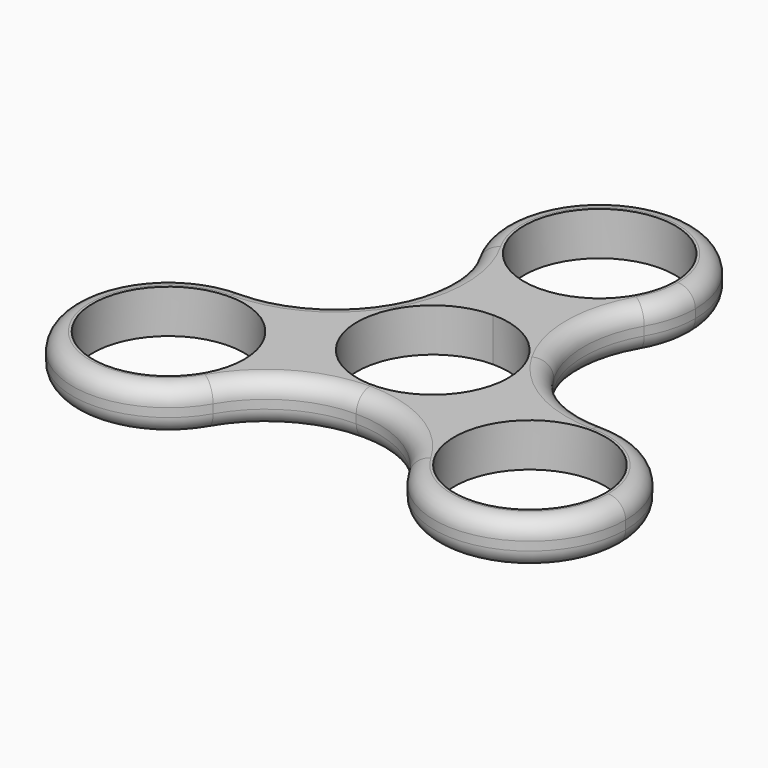
from build123d import *

# Parameters (mm, degrees)
F0_R     = 11.049
F1_DEPTH = 6.35
F2_R     = 2.54


with BuildPart() as f1:
    # F0 (on Top) → F1 (new body)
    with BuildSketch(Plane.XY):
        with BuildLine():
            ThreePointArc((0, 11.049), (7.8128228253, 7.8128228253), (11.049, 0))
            ThreePointArc((11.049, 0), (-2.8596916293, -10.6725144547), (-9.5687146864, 5.5245))
            Line((-9.5687146864, 5.5245), (-12.0983748909, 6.985))
            ThreePointArc((-12.0983748842, 6.9850000115), (-12.0983748894, -6.9850000025), (1.9e-08, -13.97))
            ThreePointArc((1.9e-08, -13.97), (9.8782817399, -9.8782817264), (13.97, 0))
            ThreePointArc((13.97, 0), (13.4939838053, 3.6157020152), (12.0983749373, 6.9849999196))
            ThreePointArc((12.0983749373, 6.9849999196), (6.9850000402, 12.0983748677), (0, 13.97))
            Line((0, 13.97), (0, 11.049))
        make_face()
        with BuildLine():
            ThreePointArc((-9.5687146864, 5.5245), (-5.5245, 9.5687146864), (0, 11.049))
            Line((0, 11.049), (0, 13.97))
            ThreePointArc((0, 13.97), (-6.9849999943, 12.0983748942), (-12.0983748842, 6.9850000115))
            Line((-12.0983748909, 6.985), (-9.5687146864, 5.5245))
        make_face()
        with BuildLine():
            Line((0, 16.51), (0, 13.97))
            ThreePointArc((0, 13.97), (6.9850000402, 12.0983748677), (12.0983749373, 6.9849999196))
            ThreePointArc((12.0983749373, 6.9849999196), (9.8864543073, 15.2399999536), (12.0983748909, 23.495))
            ThreePointArc((12.0983748909, 23.495), (6.985, 18.3816251091), (0, 16.51))
        make_face()
        with BuildLine():
            ThreePointArc((-12.0983748842, 6.9850000115), (-6.9849999943, 12.0983748942), (0, 13.97))
            Line((0, 13.97), (0, 16.51))
            ThreePointArc((0, 16.51), (-6.985, 18.3816251091), (-12.0983748909, 23.495))
            ThreePointArc((-12.0983748909, 23.495), (-9.8864543073, 15.2400000066), (-12.0983748842, 6.9850000115))
        make_face()
        with BuildLine():
            ThreePointArc((1.9e-08, -13.97), (-12.0983748894, -6.9850000025), (-12.0983748842, 6.9850000115))
            ThreePointArc((-12.0983748842, 6.9850000115), (-18.1414543016, 0.9419205868), (-26.3964543073, -1.27))
            ThreePointArc((-26.3964543073, -1.27), (-16.5181725742, -5.3617182668), (-12.4264543073, -15.24))
            ThreePointArc((-12.4264543073, -15.24), (-12.9024705141, -18.8557020601), (-14.2980794165, -22.225))
            ThreePointArc((-14.2980794165, -22.225), (-8.2549999918, -16.1819205788), (1.9e-08, -13.97))
        make_face()
        with BuildLine():
            ThreePointArc((26.3964543073, -1.27), (18.1414543475, 0.9419205603), (12.0983749373, 6.9849999196))
            ThreePointArc((12.0983749373, 6.9849999196), (13.4939838053, 3.6157020152), (13.97, 0))
            ThreePointArc((13.97, 0), (9.8782817399, -9.8782817264), (1.9e-08, -13.97))
            ThreePointArc((1.9e-08, -13.97), (8.2550000082, -16.1819205883), (14.2980794165, -22.225))
            ThreePointArc((14.2980794165, -22.225), (14.2980794165, -8.255), (26.3964543073, -1.27))
        make_face()
        with BuildLine():
            ThreePointArc((-12.0983748909, 23.495), (-6.985, 18.3816251091), (0, 16.51))
            ThreePointArc((0, 16.51), (6.985, 18.3816251091), (12.0983748909, 23.495))
            ThreePointArc((12.0983748909, 23.495), (13.4939837933, 26.8642979399), (13.97, 30.48))
            ThreePointArc((13.97, 30.48), (-3.6157020601, 43.9739837933), (-12.0983748909, 23.495))
        make_face()
        with BuildLine():
            ThreePointArc((11.049, 30.48), (7.8128228253, 22.6671771747), (0, 19.431))
            ThreePointArc((0, 19.431), (-7.8128228253, 38.2928228253), (11.049, 30.48))
        make_face(mode=Mode.SUBTRACT)
        with BuildLine():
            ThreePointArc((-12.4264543073, -15.24), (-16.5181725742, -5.3617182668), (-26.3964543073, -1.27))
            ThreePointArc((-26.3964543073, -1.27), (-38.4948291982, -22.225), (-14.2980794165, -22.225))
            ThreePointArc((-14.2980794165, -22.225), (-12.9024705141, -18.8557020601), (-12.4264543073, -15.24))
        make_face()
        with Locations((-26.3964543073, -15.24)):
            Circle(F0_R, mode=Mode.SUBTRACT)
        with BuildLine():
            ThreePointArc((40.3664543073, -15.24), (36.2747360405, -5.3617182668), (26.3964543073, -1.27))
            ThreePointArc((26.3964543073, -1.27), (14.2980794165, -8.255), (14.2980794165, -22.225))
            ThreePointArc((14.2980794165, -22.225), (30.0121563674, -28.7339837933), (40.3664543073, -15.24))
        make_face()
        with Locations((26.3964543073, -15.24)):
            Circle(F0_R, mode=Mode.SUBTRACT)
    extrude(amount=F1_DEPTH)

    # F2
    f2_edges = [f1.edges().sort_by_distance(p)[0] for p in [
        (0, -13.97, 6.35),
        (0, -13.97, 0),
    ]]
    fillet(f2_edges, radius=F2_R)


solid = f1.part
